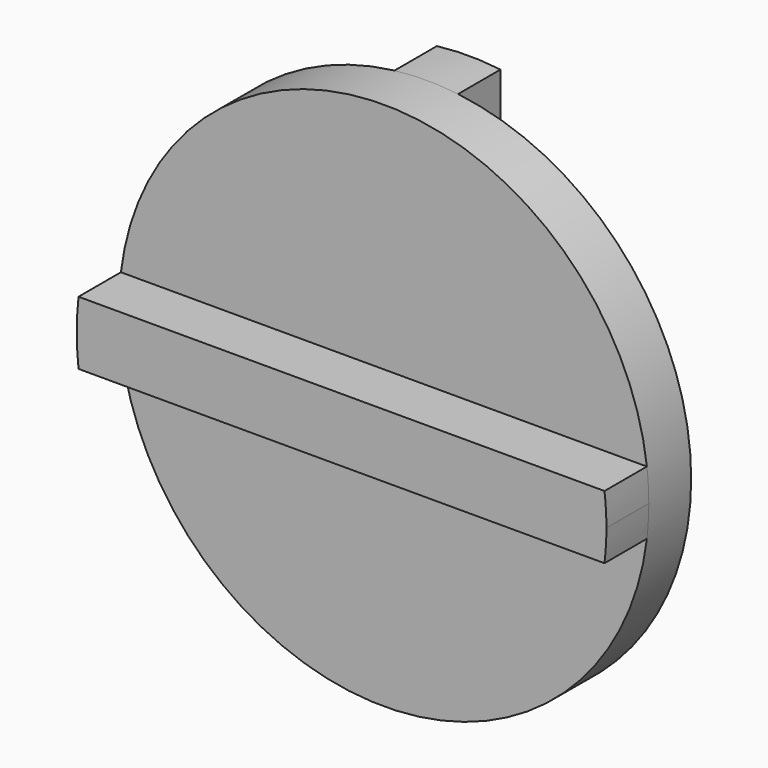
from build123d import *

# Parameters (mm, degrees)
F0_R     = 50
F1_DEPTH = 10
F3_DEPTH = 10
F5_DEPTH = 10


with BuildPart() as f1:
    # F0 (on Front) → F1 (new body)
    with BuildSketch(Plane.XZ):
        Circle(F0_R)
    extrude(amount=F1_DEPTH)

    # F2 (on face) → F3 (join)
    with BuildSketch(Plane.XZ.offset(10)):
        with BuildLine():
            Line((49.638694584, 6), (-49.638694584, 6))
            ThreePointArc((-49.638694584, 6), (-50, 0), (-49.638694584, -6))
            Line((-49.638694584, -6), (49.638694584, -6))
            ThreePointArc((49.638694584, -6), (49.9095919098, -3.0054343115), (50, 0))
            ThreePointArc((50, 0), (49.9095919098, 3.0054343115), (49.638694584, 6))
        make_face()
    extrude(amount=F3_DEPTH)

    # F4 (on Front) → F5 (join)
    with BuildSketch(Plane.XZ):
        with BuildLine():
            Line((6, -49.638694584), (6, 49.638694584))
            ThreePointArc((6, 49.638694584), (0, 50), (-6, 49.638694584))
            Line((-6, 49.638694584), (-6, -49.638694584))
            ThreePointArc((-6, -49.638694584), (0, -50), (6, -49.638694584))
        make_face()
    extrude(amount=-F5_DEPTH)


solid = f1.part
